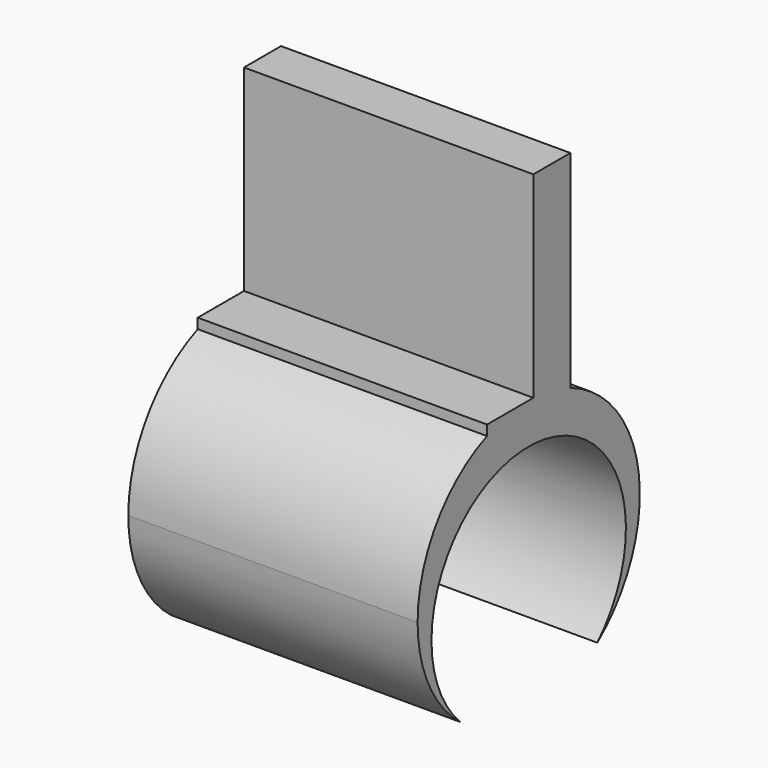
from build123d import *

# Parameters (mm, degrees)
F0_W     = 12.5
F0_H     = 4.5
F1_DEPTH = 0.5
F2_W     = 12.5
F2_H     = 2
F3_DEPTH = 8.5
F5_DEPTH = 12.5


with BuildPart() as f1:
    # F0 (on Top) → F1 (new body)
    with BuildSketch(Plane.XY):
        Rectangle(F0_W, F0_H)
    extrude(amount=F1_DEPTH)

    # F2 (on face) → F3 (join)
    with BuildSketch(Plane.XY.offset(0.5)):
        with Locations((0, 1.25)):
            Rectangle(F2_W, F2_H)
    extrude(amount=F3_DEPTH)

    # F4 (on face) → F5 (join)
    with BuildSketch(Plane(origin=(-6.25, 0, 0), x_dir=(0, -1, 0), z_dir=(-1, 0, 0))):
        with BuildLine():
            ThreePointArc((3.70586, -10.21875), (5.396071, -8.123437), (6, -5.5))
            ThreePointArc((6, -5.5), (4.974937, -2.145898), (2.25, 0.062149))
            Line((2.25, 0.062149), (2.25, 0))
            Line((2.25, 0), (-2.25, 0))
            Line((-2.25, 0), (-2.25, 0.062149))
            ThreePointArc((-2.25, 0.062149), (-5.940731, -4.658743), (-3.70586, -10.21875))
            ThreePointArc((-3.70586, -10.21875), (-2.013298, -1.651378), (5.25, -6.5))
            ThreePointArc((5.25, -6.5), (4.848622, -8.513298), (3.70586, -10.21875))
        make_face()
    extrude(amount=-F5_DEPTH)


solid = f1.part
